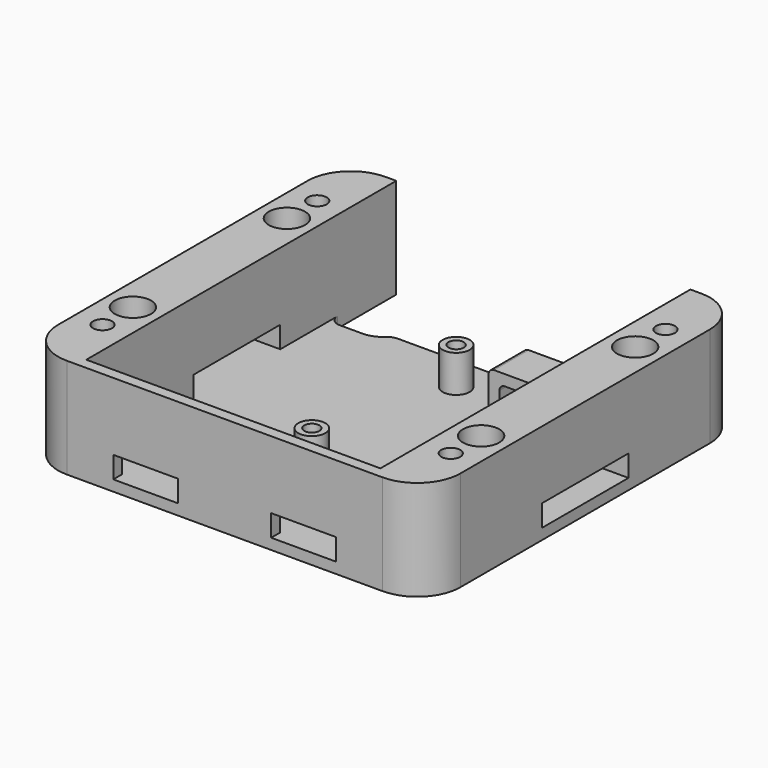
from build123d import *

# Parameters (mm, degrees)
F1_R      = 1.75
F1_R_2    = 3.35
F2_DEPTH  = 2
F3_R      = 2
F4_R      = 1.75
F4_R_2    = 3.35
F5_DEPTH  = 16.51
F6_SIZE2  = 2.8
F6_SIZE   = 1.6
F7_R      = 2.5
F7_R_2    = 1.4
F8_DEPTH  = 6.85
F9_W      = 20
F9_H      = 4
F10_DEPTH = 10.001
F11_W     = 20
F11_H     = 4
F12_DEPTH = 10.001
F13_W     = 12
F13_H     = 4
F14_DEPTH = 2.001
F15_W     = 20
F15_H     = 8
F16_DEPTH = 6
F17_W     = 18
F17_H     = 4
F18_DEPTH = 8
F19_R     = 1


with BuildPart() as f2:
    # F1 (on Top) → F2 (new body)
    with BuildSketch(Plane.XY):
        with BuildLine():
            ThreePointArc((8, 73.58), (2.343146, 71.236854), (0, 65.58))
            Line((0, 65.58), (0, 8))
            ThreePointArc((0, 8), (2.343146, 2.343146), (8, 0))
            Line((8, 0), (66.34, 0))
            ThreePointArc((66.34, 0), (71.996854, 2.343146), (74.34, 8))
            Line((74.34, 8), (74.34, 65.58))
            ThreePointArc((74.34, 65.58), (71.996854, 71.236854), (66.34, 73.58))
            Line((66.34, 73.58), (64.34, 73.58))
            Line((64.34, 73.58), (64.34, 59.98))
            Line((64.34, 59.98), (21.181552, 59.98))
            ThreePointArc((21.181552, 59.98), (20.280164, 59.811845), (19.500034, 59.33))
            ThreePointArc((19.500034, 59.33), (17.939776, 58.36631), (16.137, 58.03))
            Line((16.137, 58.03), (10, 58.03))
            Line((10, 58.03), (10, 73.58))
            Line((10, 73.58), (8, 73.58))
        make_face()
        with Locations((5, 12)):
            Circle(F1_R, mode=Mode.SUBTRACT)
        with Locations((5, 19)):
            Circle(F1_R_2, mode=Mode.SUBTRACT)
        with Locations((69.34, 12)):
            Circle(F1_R, mode=Mode.SUBTRACT)
        with Locations((69.34, 19)):
            Circle(F1_R_2, mode=Mode.SUBTRACT)
        with Locations((5, 54.58)):
            Circle(F1_R_2, mode=Mode.SUBTRACT)
        with Locations((5, 61.58)):
            Circle(F1_R, mode=Mode.SUBTRACT)
        with Locations((69.34, 54.58)):
            Circle(F1_R_2, mode=Mode.SUBTRACT)
        with Locations((69.34, 61.58)):
            Circle(F1_R, mode=Mode.SUBTRACT)
    extrude(amount=-F2_DEPTH)

    # F3
    f3_edges = [f2.edges().sort_by_distance(p)[0] for p in [
        (10, 58.03, -1),
        (64.34, 59.98, -1),
    ]]
    fillet(f3_edges, radius=F3_R)

    # F4 (on face) → F5 (join)
    with BuildSketch(Plane.XY):
        with BuildLine():
            ThreePointArc((8, 73.58), (2.343146, 71.236854), (0, 65.58))
            Line((0, 65.58), (0, 8))
            ThreePointArc((0, 8), (2.343146, 2.343146), (8, 0))
            Line((8, 0), (66.34, 0))
            ThreePointArc((66.34, 0), (71.996854, 2.343146), (74.34, 8))
            Line((74.34, 8), (74.34, 65.58))
            ThreePointArc((74.34, 65.58), (71.996854, 71.236854), (66.34, 73.58))
            Line((66.34, 73.58), (64.34, 73.58))
            Line((64.34, 73.58), (64.34, 2))
            Line((64.34, 2), (10, 2))
            Line((10, 2), (10, 73.58))
            Line((10, 73.58), (8, 73.58))
        make_face()
        with Locations((5, 12)):
            Circle(F4_R, mode=Mode.SUBTRACT)
        with Locations((5, 19)):
            Circle(F4_R_2, mode=Mode.SUBTRACT)
        with Locations((69.34, 12)):
            Circle(F4_R, mode=Mode.SUBTRACT)
        with Locations((69.34, 19)):
            Circle(F4_R_2, mode=Mode.SUBTRACT)
        with Locations((5, 54.58)):
            Circle(F4_R_2, mode=Mode.SUBTRACT)
        with Locations((5, 61.58)):
            Circle(F4_R, mode=Mode.SUBTRACT)
        with Locations((69.34, 54.58)):
            Circle(F4_R_2, mode=Mode.SUBTRACT)
        with Locations((69.34, 61.58)):
            Circle(F4_R, mode=Mode.SUBTRACT)
    extrude(amount=F5_DEPTH)

    # F6
    f6_edges = [f2.edges().sort_by_distance(p)[0] for p in [
        (3.25, 61.58, -2),
        (3.25, 12, -2),
        (67.59, 12, -2),
        (67.59, 61.58, -2),
    ]]
    chamfer(f6_edges, length=F6_SIZE, length2=F6_SIZE2)

    # F7 (on face) → F8 (join)
    with BuildSketch(Plane.XY):
        with Locations((37.17, 53.45)):
            Circle(F7_R)
        with Locations((37.17, 53.45)):
            Circle(F7_R_2, mode=Mode.SUBTRACT)
        with Locations((37.17, 20.13)):
            Circle(F7_R)
        with Locations((37.17, 20.13)):
            Circle(F7_R_2, mode=Mode.SUBTRACT)
    extrude(amount=F8_DEPTH)

    # F9 (on face) → F10 (cut, through all)
    with BuildSketch(Plane.YZ.offset(10)):
        with Locations((36.79, 2)):
            Rectangle(F9_W, F9_H)
    extrude(amount=-F10_DEPTH, mode=Mode.SUBTRACT)

    # F11 (on face) → F12 (cut, through all)
    with BuildSketch(Plane(origin=(64.34, 0, 0), x_dir=(0, -1, 0), z_dir=(-1, 0, 0))):
        with Locations((-36.79, 2)):
            Rectangle(F11_W, F11_H)
    extrude(amount=-F12_DEPTH, mode=Mode.SUBTRACT)

    # F13 (on face) → F14 (cut, through all)
    with BuildSketch(Plane(origin=(0, 2, 0), x_dir=(-1, 0, 0), z_dir=(0, 1, 0))):
        with Locations((-51.755, 2)):
            Rectangle(F13_W, F13_H)
        with Locations((-22.585, 2)):
            Rectangle(F13_W, F13_H)
    extrude(amount=-F14_DEPTH, mode=Mode.SUBTRACT)

    # F15 (on face) → F16 (join)
    with BuildSketch(Plane.XY):
        with Locations((54.34, 55.98)):
            Rectangle(F15_W, F15_H)
    extrude(amount=F16_DEPTH)

    # F17 (on face) → F18 (cut, through all)
    with BuildSketch(Plane(origin=(0, 59.98, 0), x_dir=(-1, 0, 0), z_dir=(0, 1, 0))):
        with Locations((-55.34, 2)):
            Rectangle(F17_W, F17_H)
    extrude(amount=-F18_DEPTH, mode=Mode.SUBTRACT)

    # F19
    f19_edges = [f2.edges().sort_by_distance(p)[0] for p in [
        (46.34, 55.98, 4),
        (44.34, 55.98, 6),
    ]]
    fillet(f19_edges, radius=F19_R)


solid = f2.part
